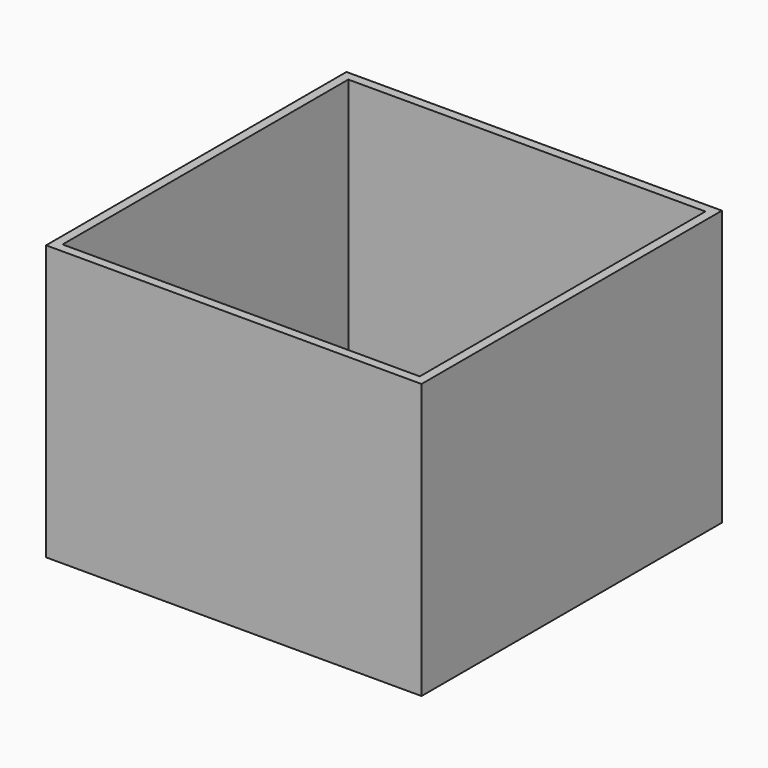
from build123d import *

# Parameters (mm, degrees)
F0_W     = 205
F0_H     = 205
F0_W_2   = 195
F0_H_2   = 195
F1_DEPTH = 150
F0_R     = 1.5
F0_W_3   = 49
F0_H_3   = 49
F2_DEPTH = 3


with BuildPart() as f1:
    # F0 (on Top) → F1 (new body)
    with BuildSketch(Plane.XY):
        Rectangle(F0_W, F0_H)
        Rectangle(F0_W_2, F0_H_2, mode=Mode.SUBTRACT)
    extrude(amount=F1_DEPTH)

    # F0 (on Top) → F2 (join)
    with BuildSketch(Plane.XY):
        Rectangle(F0_W_2, F0_H_2)
        with Locations((-95.5, -95.5)):
            Circle(F0_R, mode=Mode.SUBTRACT)
        with Locations((-32.5, -75)):
            Circle(F0_R, mode=Mode.SUBTRACT)
        with Locations((-10, -48.904069)):
            Circle(F0_R, mode=Mode.SUBTRACT)
        with Locations((-48.904069, -10)):
            Circle(F0_R, mode=Mode.SUBTRACT)
        with Locations((32.5, -75)):
            Circle(F0_R, mode=Mode.SUBTRACT)
        with Locations((95.5, -95.5)):
            Circle(F0_R, mode=Mode.SUBTRACT)
        with Locations((10, -48.904069)):
            Circle(F0_R, mode=Mode.SUBTRACT)
        with Locations((48.904069, -10)):
            Circle(F0_R, mode=Mode.SUBTRACT)
        with Locations((-48.904069, 10)):
            Circle(F0_R, mode=Mode.SUBTRACT)
        with Locations((-10, 48.904069)):
            Circle(F0_R, mode=Mode.SUBTRACT)
        with Locations((-95.5, 95.5)):
            Circle(F0_R, mode=Mode.SUBTRACT)
        with Locations((-32.5, 75)):
            Circle(F0_R, mode=Mode.SUBTRACT)
        Rectangle(F0_W_3, F0_H_3, mode=Mode.SUBTRACT)
        with Locations((48.904069, 10)):
            Circle(F0_R, mode=Mode.SUBTRACT)
        with Locations((10, 48.904069)):
            Circle(F0_R, mode=Mode.SUBTRACT)
        with Locations((32.5, 75)):
            Circle(F0_R, mode=Mode.SUBTRACT)
        with Locations((95.5, 95.5)):
            Circle(F0_R, mode=Mode.SUBTRACT)
    extrude(amount=F2_DEPTH)


solid = f1.part
